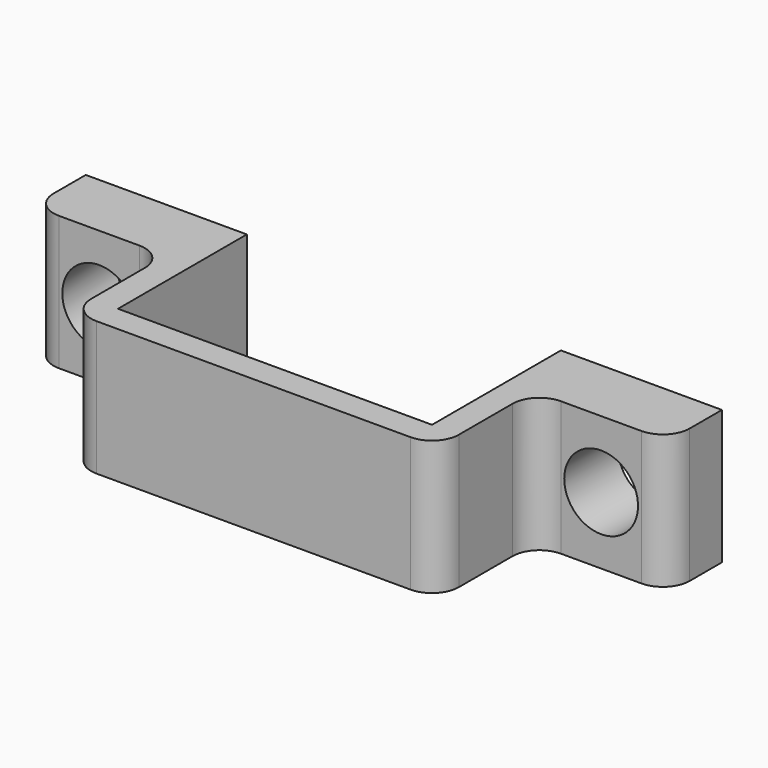
from build123d import *

# Parameters (mm, degrees)
PAD053_DEPTH            = 5
SKETCH104_R             = 2.75
POCKET052_DEPTH         = 8.001
POCKET052_DEPTH_BACK    = 6.001
BODY032_PLACEMENT_ANGLE = 180


with BuildPart() as part:
    # Sketch103 → Pad053 (new body, symmetric)
    with BuildSketch(Plane(origin=(6, -6, 0), x_dir=(1, 0, 0), z_dir=(0, 0, 1))):
        with BuildLine():
            Line((-21.7, 5), (-15.7, 5))
            ThreePointArc((-15.7, 5), (-14.2857864376, 5.5857864376), (-13.7, 7))
            Line((-13.7, 7), (-13.7, 12))
            ThreePointArc((-11.7, 14), (-13.1142135624, 13.4142135624), (-13.7, 12))
            Line((-11.7, 14), (0, 14))
            Line((0, 14), (0, 12))
            Line((0, 12), (-11.7, 12))
            Line((-11.7, 12), (-11.7, 0))
            Line((-11.7, 0), (-23.7, 0))
            Line((-23.7, 0), (-23.7, 3))
            ThreePointArc((-21.7, 5), (-23.1142135624, 4.4142135624), (-23.7, 3))
        make_face()
    extrude(amount=PAD053_DEPTH, both=True)

    # Sketch104 → Pocket052 (cut, two sides)
    with BuildSketch(Plane.XZ) as pocket052_sk:
        with Locations((-12.7, 0)):
            Circle(SKETCH104_R)
    extrude(amount=-POCKET052_DEPTH, mode=Mode.SUBTRACT)
    extrude(pocket052_sk.sketch, amount=POCKET052_DEPTH_BACK, mode=Mode.SUBTRACT)

    # Mirrored024: part across Sketch103 V_Axis


with BuildPart() as part_1:
    add(part.part)
    add(part.part.mirror(Plane(origin=(6, -6, 0), x_dir=(0, 0, 1), z_dir=(1, 0, 0))))


with BuildPart() as part_2:
    # Body032 placement: moved
    add(part_1.part.moved(Location((11.5, 0, -16))).rotate(Axis((11.5, 0, -16), (0, 0, 1)), BODY032_PLACEMENT_ANGLE))


solid = part_2.part
